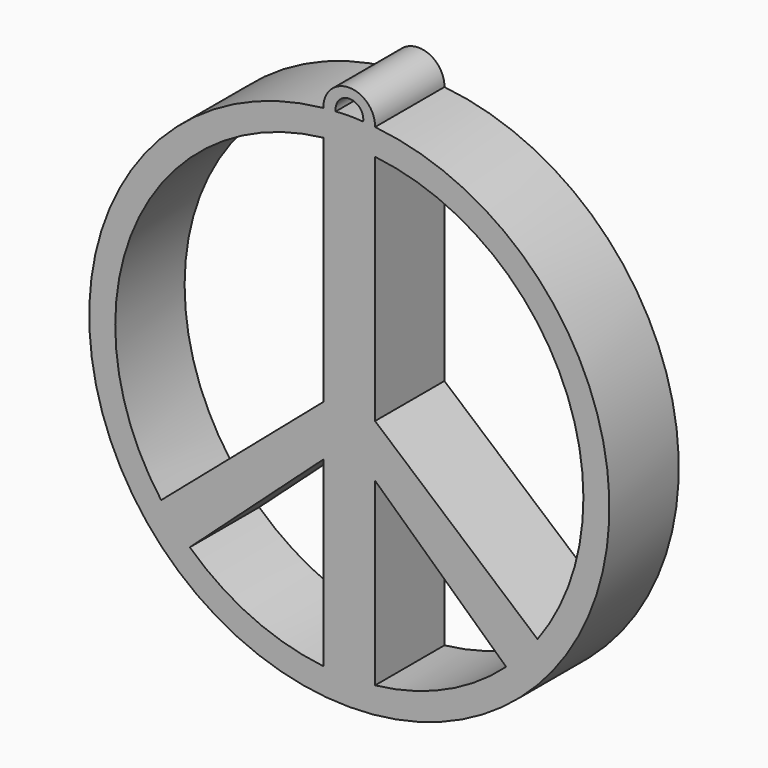
from build123d import *

# Parameters (mm, degrees)
F1_DEPTH = 25.4


with BuildPart() as f1:
    # F0 (on Front) → F1 (new body)
    with BuildSketch(Plane.XZ):
        with BuildLine():
            ThreePointArc((7.543686, 75.825674), (-0.042041, 83.538929), (-7.62, 75.818043))
            ThreePointArc((-7.62, 75.818043), (0.038347, -76.19999), (7.543686, 75.825674))
        make_face()
        with BuildLine():
            Line((-46.72537, -50.199166), (-7.62, -14.827028))
            Line((-7.62, -14.827028), (-7.62, -68.155352))
            ThreePointArc((-7.62, -68.155352), (-28.617494, -62.323795), (-46.72537, -50.199166))
        make_face(mode=Mode.SUBTRACT)
        with BuildLine():
            Line((7.543686, -68.163841), (7.543686, -15.378908))
            Line((7.543686, -15.378908), (45.949587, -50.910233))
            ThreePointArc((45.949587, -50.910233), (28.103457, -62.557271), (7.543686, -68.163841))
        make_face(mode=Mode.SUBTRACT)
        with BuildLine():
            ThreePointArc((-55.136218, -40.78252), (-62.860565, 27.418346), (-7.62, 68.155352))
            Line((-7.62, 68.155352), (-7.62, 0))
            Line((-7.62, 0), (-55.136218, -40.78252))
        make_face(mode=Mode.SUBTRACT)
        with BuildLine():
            Line((7.543686, 0.007631), (7.543686, 68.163841))
            ThreePointArc((7.543686, 68.163841), (62.845206, 27.453533), (55.136218, -40.78252))
            Line((55.136218, -40.78252), (7.543686, 0.007631))
        make_face(mode=Mode.SUBTRACT)
        with BuildLine():
            ThreePointArc((-3.990706, 76.095429), (0.036214, 80.69915), (4.059, 76.091816))
            ThreePointArc((4.059, 76.091816), (0.034219, 76.253317), (-3.990706, 76.095429))
        make_face(mode=Mode.SUBTRACT)
    extrude(amount=F1_DEPTH)


solid = f1.part
